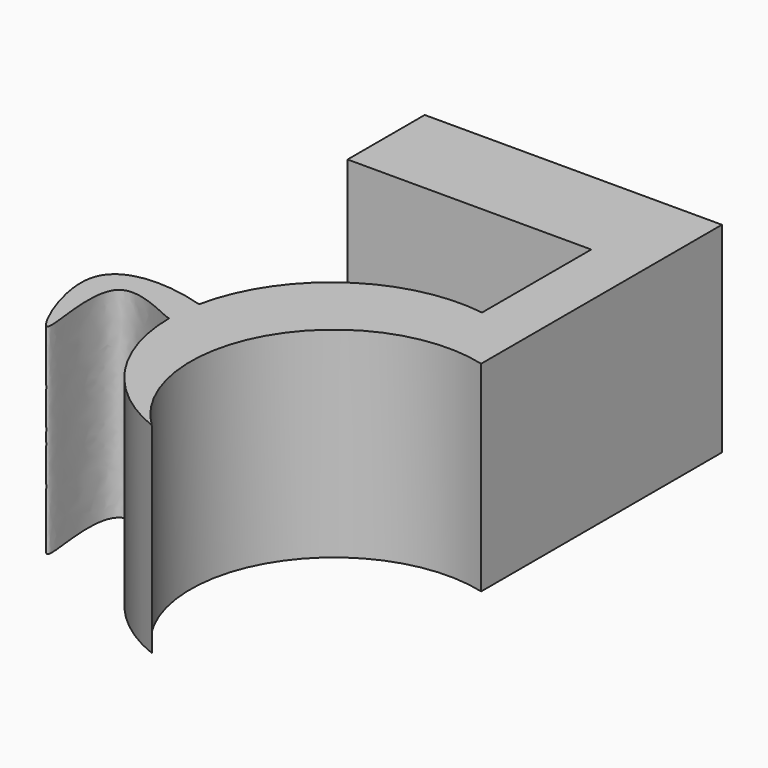
from build123d import *

# Parameters (mm, degrees)
F1_DEPTH = 30


with BuildPart() as f1:
    # F0 (on Top) → F1 (new body)
    with BuildSketch(Plane.XY):
        with BuildLine():
            Line((21.654907614, 34.859791398), (-22.8144172579, 34.859791398))
            Line((-22.8144172579, 34.859791398), (-22.8144172579, 20.429128781))
            Line((-22.8144172579, 20.429128781), (13.6470003054, 20.429128781))
            Line((13.6470003054, 20.429128781), (13.6470003054, 0))
            ThreePointArc((13.6470003054, 0), (-3.6920022459, -4.1217972715), (-13.4842637926, -19.0127957612))
            ThreePointArc((-13.4842637926, -19.0127957612), (-13.8488173763, -21.3472684555), (-13.9835392671, -23.7061902617))
            add(Edge.make_bspline(
                [(-13.984221565, -23.9764851339), (-13.8792178152, -23.953310261), (-13.9360543808, -23.8125987493), (-13.9835392671, -23.7061902617)],
                knots=[0.9641818028, 0.9641818028, 0.9641818028, 0.9641818028, 1, 1, 1, 1], degree=3))
            ThreePointArc((-13.984221565, -23.9764851339), (-9.7690818852, -37.5354132208), (1.3363377657, -46.3831014931))
            ThreePointArc((1.3363377657, -46.3831014931), (-2.4692186966, -20.440612127), (21.654907614, -10.1682441309))
            Line((21.654907614, -10.1682441309), (21.654907614, 34.859791398))
        make_face()
        with BuildLine():
            add(Edge.make_bspline(
                [(-13.4842637926, -19.0127957612), (-19.504737776, -17.1364625204), (-32.8825107142, -16.857174381), (-20.4332441891, -43.7978474809), (-27.9144344567, -15.6994297648), (-14.5993030108, -24.1122368036), (-13.984221565, -23.9764851339)],
                knots=[0, 0, 0, 0, 0.2598792861, 0.5112699515, 0.7543692144, 0.9641818028, 0.9641818028, 0.9641818028, 0.9641818028], degree=3))
            ThreePointArc((-13.984221565, -23.9764851339), (-13.9842585124, -23.8413367434), (-13.9835392671, -23.7061902617))
            ThreePointArc((-13.9835392671, -23.7061902617), (-13.8488173763, -21.3472684555), (-13.4842637926, -19.0127957612))
        make_face()
        with BuildLine():
            ThreePointArc((-13.9835392671, -23.7061902617), (-13.9842585124, -23.8413367434), (-13.984221565, -23.9764851339))
            add(Edge.make_bspline(
                [(-13.984221565, -23.9764851339), (-13.8792178152, -23.953310261), (-13.9360543808, -23.8125987493), (-13.9835392671, -23.7061902617)],
                knots=[0.9641818028, 0.9641818028, 0.9641818028, 0.9641818028, 1, 1, 1, 1], degree=3))
        make_face()
    extrude(amount=F1_DEPTH)


solid = f1.part
